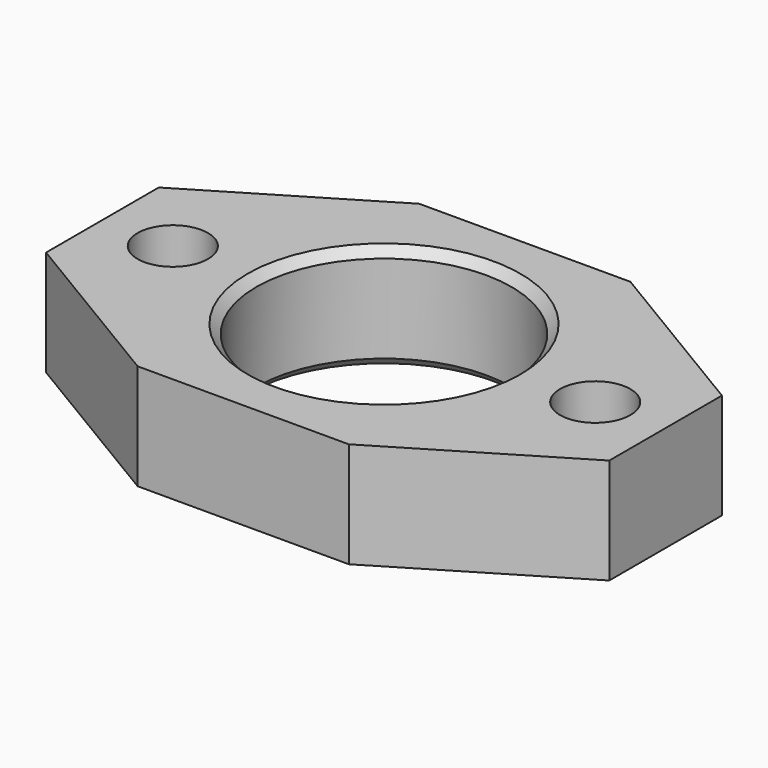
from build123d import *

# Parameters (mm, degrees)
F0_R     = 6.35
F0_R_2   = 23.01875
F1_DEPTH = 19.05
F2_SIZE  = 1.5875


with BuildPart() as f1:
    # F0 (on Top) → F1 (new body)
    with BuildSketch(Plane.XY):
        Polygon((-19.05, -31.75), (19.05, -31.75), (50.8, -12.7), (50.8, 12.7), (19.05, 31.75), (-19.05, 31.75), (-50.8, 12.7), (-50.8, -12.7), align=None)
        with Locations((-38.1, 0)):
            Circle(F0_R, mode=Mode.SUBTRACT)
        Circle(F0_R_2, mode=Mode.SUBTRACT)
        with Locations((38.1, 0)):
            Circle(F0_R, mode=Mode.SUBTRACT)
    extrude(amount=F1_DEPTH)

    # F2
    f2_edges = [f1.edges().sort_by_distance(p)[0] for p in [
        (-23.01875, 0, 0),
        (-23.01875, 0, 19.05),
    ]]
    chamfer(f2_edges, length=F2_SIZE)


solid = f1.part
